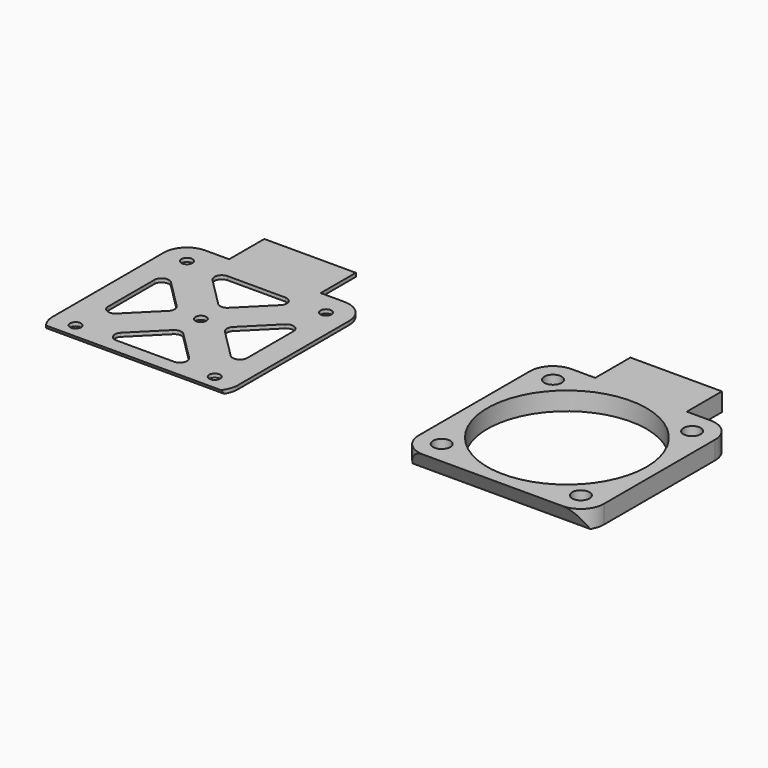
from build123d import *

# Parameters (mm, degrees)
F0_R      = 21.75
F0_W      = 25
F0_H      = 12
F1_DEPTH  = 5
F2_D      = 4.7
F4_DEPTH  = 50.6
F5_R      = 1.5
F7_DEPTH  = 1
F9_DEPTH  = 50.6
F11_DEPTH = 25


with BuildPart() as f1:
    # F0 (on Top) → F1 (new body)
    with BuildSketch(Plane.XY):
        with BuildLine():
            Line((-19, -25.3), (19, -25.3))
            ThreePointArc((19, -25.3), (23.4547727215, -23.4547727215), (25.3, -19))
            Line((25.3, -19), (25.3, 19))
            ThreePointArc((25.3, 19), (23.4547727215, 23.4547727215), (19, 25.3))
            Line((19, 25.3), (12.5, 25.3))
            Line((12.5, 25.3), (-12.5, 25.3))
            Line((-12.5, 25.3), (-19, 25.3))
            ThreePointArc((-19, 25.3), (-23.4547727215, 23.4547727215), (-25.3, 19))
            Line((-25.3, 19), (-25.3, -19))
            ThreePointArc((-25.3, -19), (-23.4547727215, -23.4547727215), (-19, -25.3))
        make_face()
        Circle(F0_R, mode=Mode.SUBTRACT)
        with Locations((0, 31.3)):
            Rectangle(F0_W, F0_H)
    extrude(amount=F1_DEPTH)

    # F2 (through all)
    with Locations(Plane(origin=(0, 0, 0), x_dir=(1, 0, 0), z_dir=(0, 0, -1))):
        with Locations((-19, 19), (19, 19), (-19, -19), (19, -19)):
            Hole(F2_D / 2)

    # F3 (on face) → F4 (cut, through all)
    with BuildSketch(Plane(origin=(-25.3, 0, 0), x_dir=(0, -1, 0), z_dir=(-1, 0, 0))):
        Polygon((25.3, 5), (22.4132486541, 0), (25.3, 0), align=None)
    extrude(amount=-F4_DEPTH, mode=Mode.SUBTRACT)


with BuildPart() as f1_1:
    # F6: moved
    add(f1.part.moved(Location((100, 0, 0))))


with BuildPart() as f7:
    # F5 (on Top) → F7 (new body)
    with BuildSketch(Plane.XY):
        with BuildLine():
            Line((-25.3, 19), (-25.3, -19))
            ThreePointArc((-25.3, -19), (-17.2209709565, -12.9564037476), (-13.7047442342, -22.4132486541))
            Line((-13.7047442342, -22.4132486541), (13.7047442342, -22.4132486541))
            ThreePointArc((13.7047442342, -22.4132486541), (17.2209709565, -12.9564037476), (25.3, -19))
            Line((25.3, -19), (25.3, 19))
            ThreePointArc((25.3, 19), (14.5452272785, 14.5452272785), (19, 25.3))
            Line((19, 25.3), (12.5, 25.3))
            Line((12.5, 25.3), (12.5, 37.3))
            Line((12.5, 37.3), (-12.5, 37.3))
            Line((-12.5, 37.3), (-12.5, 25.3))
            Line((-12.5, 25.3), (-19, 25.3))
            ThreePointArc((-19, 25.3), (-14.5452272785, 23.4547727215), (-12.7, 19))
            ThreePointArc((-12.7, 19), (-19, 12.7), (-25.3, 19))
        make_face()
        with BuildLine():
            Line((7.8715728753, -19), (-7.8715728753, -19))
            ThreePointArc((-7.8715728753, -19), (-9.7193319403, -17.7653668647), (-9.2857864376, -15.5857864376))
            Line((-9.2857864376, -15.5857864376), (-1.4142135624, -7.7142135624))
            ThreePointArc((-1.4142135624, -7.7142135624), (0, -7.1284271247), (1.4142135624, -7.7142135624))
            Line((1.4142135624, -7.7142135624), (9.2857864376, -15.5857864376))
            ThreePointArc((9.2857864376, -15.5857864376), (9.7193319403, -17.7653668647), (7.8715728753, -19))
        make_face(mode=Mode.SUBTRACT)
        with BuildLine():
            Line((-19, -7.8715728753), (-19, 7.8715728753))
            ThreePointArc((-19, 7.8715728753), (-17.7653668647, 9.7193319403), (-15.5857864376, 9.2857864376))
            Line((-15.5857864376, 9.2857864376), (-7.7142135624, 1.4142135624))
            ThreePointArc((-7.7142135624, 1.4142135624), (-7.1284271247, 0), (-7.7142135624, -1.4142135624))
            Line((-7.7142135624, -1.4142135624), (-15.5857864376, -9.2857864376))
            ThreePointArc((-15.5857864376, -9.2857864376), (-17.7653668647, -9.7193319403), (-19, -7.8715728753))
        make_face(mode=Mode.SUBTRACT)
        Circle(F5_R, mode=Mode.SUBTRACT)
        with BuildLine():
            Line((19, 7.8715728753), (19, -7.8715728753))
            ThreePointArc((19, -7.8715728753), (17.7653668647, -9.7193319403), (15.5857864376, -9.2857864376))
            Line((15.5857864376, -9.2857864376), (7.7142135624, -1.4142135624))
            ThreePointArc((7.7142135624, -1.4142135624), (7.1284271247, 0), (7.7142135624, 1.4142135624))
            Line((7.7142135624, 1.4142135624), (15.5857864376, 9.2857864376))
            ThreePointArc((15.5857864376, 9.2857864376), (17.7653668647, 9.7193319403), (19, 7.8715728753))
        make_face(mode=Mode.SUBTRACT)
        with BuildLine():
            Line((-7.8715728753, 19), (7.8715728753, 19))
            ThreePointArc((7.8715728753, 19), (9.7193319403, 17.7653668647), (9.2857864376, 15.5857864376))
            Line((9.2857864376, 15.5857864376), (1.4142135624, 7.7142135624))
            ThreePointArc((1.4142135624, 7.7142135624), (0, 7.1284271247), (-1.4142135624, 7.7142135624))
            Line((-1.4142135624, 7.7142135624), (-9.2857864376, 15.5857864376))
            ThreePointArc((-9.2857864376, 15.5857864376), (-9.7193319403, 17.7653668647), (-7.8715728753, 19))
        make_face(mode=Mode.SUBTRACT)
        with BuildLine():
            ThreePointArc((19, 25.3), (14.5452272785, 14.5452272785), (25.3, 19))
            ThreePointArc((25.3, 19), (23.4547727215, 23.4547727215), (19, 25.3))
        make_face()
        with Locations((19, 19)):
            Circle(F5_R, mode=Mode.SUBTRACT)
        with BuildLine():
            ThreePointArc((25.3, -19), (17.2209709565, -12.9564037476), (13.7047442342, -22.4132486541))
            Line((13.7047442342, -22.4132486541), (24.2952557658, -22.4132486541))
            ThreePointArc((24.2952557658, -22.4132486541), (25.0435962524, -20.7790290435), (25.3, -19))
        make_face()
        with Locations((19, -19)):
            Circle(F5_R, mode=Mode.SUBTRACT)
        with BuildLine():
            ThreePointArc((-13.7047442342, -22.4132486541), (-17.2209709565, -12.9564037476), (-25.3, -19))
            ThreePointArc((-25.3, -19), (-25.0435962524, -20.7790290435), (-24.2952557658, -22.4132486541))
            Line((-24.2952557658, -22.4132486541), (-13.7047442342, -22.4132486541))
        make_face()
        with Locations((-19, -19)):
            Circle(F5_R, mode=Mode.SUBTRACT)
        with BuildLine():
            ThreePointArc((-19, 25.3), (-23.4547727215, 23.4547727215), (-25.3, 19))
            ThreePointArc((-25.3, 19), (-19, 12.7), (-12.7, 19))
            ThreePointArc((-12.7, 19), (-14.5452272785, 23.4547727215), (-19, 25.3))
        make_face()
        with Locations((-19, 19)):
            Circle(F5_R, mode=Mode.SUBTRACT)
    extrude(amount=F7_DEPTH)

    # F8 (on face) → F9 (join, through all)
    with BuildSketch(Plane(origin=(-25.3, 0, 0), x_dir=(0, -1, 0), z_dir=(-1, 0, 0))):
        Polygon((22.4132486541, 1), (22.4132486541, 0), (22.9905989232, 1), align=None)
    extrude(amount=-F9_DEPTH)

    # F10 (on face) → F11 (cut)
    with BuildSketch(Plane.XY.offset(1)):
        with BuildLine():
            ThreePointArc((-23.8749482288, -22.9905989232), (-24.0932892767, -22.707884079), (-24.2952557658, -22.4132486541))
            Line((-24.2952557658, -22.4132486541), (-25.3, -22.4132486541))
            Line((-25.3, -22.4132486541), (-25.3, -22.9905989232))
            Line((-25.3, -22.9905989232), (-23.8749482288, -22.9905989232))
        make_face()
        with BuildLine():
            ThreePointArc((24.2952557658, -22.4132486541), (24.0932892767, -22.707884079), (23.8749482288, -22.9905989232))
            Line((23.8749482288, -22.9905989232), (25.3, -22.9905989232))
            Line((25.3, -22.9905989232), (25.3, -22.4132486541))
            Line((25.3, -22.4132486541), (24.2952557658, -22.4132486541))
        make_face()
    extrude(amount=-F11_DEPTH, mode=Mode.SUBTRACT)


solid = Compound([f1_1.part, f7.part])
